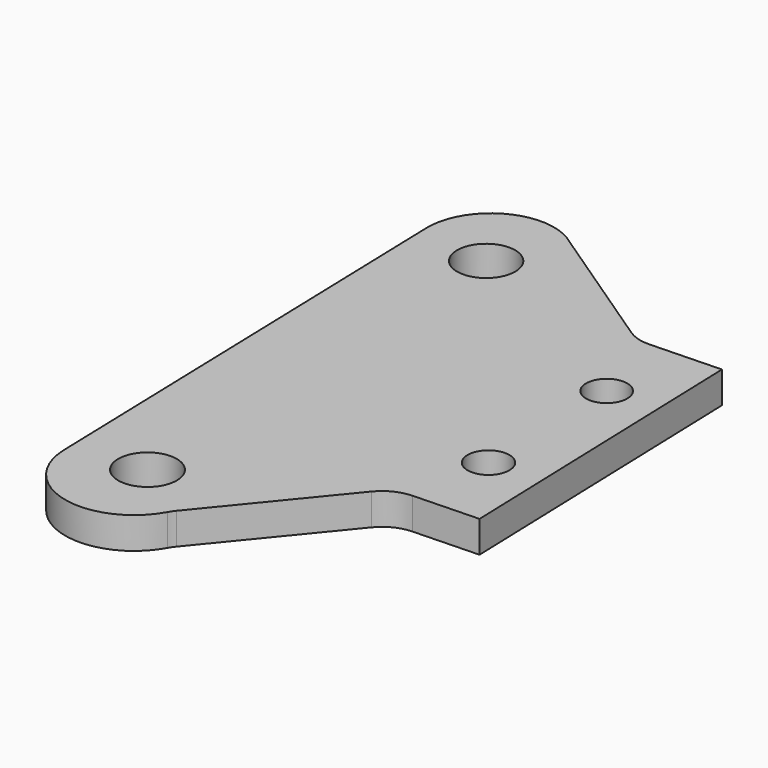
from build123d import *

# Parameters (mm, degrees)
F0_R     = 3.708309
F0_R_2   = 2.642108
F0_R_3   = 3.67947
F0_R_4   = 2.609813
F1_DEPTH = 4


with BuildPart() as f1:
    # F0 (on Top) → F1 (new body)
    with BuildSketch(Plane.XY):
        with BuildLine():
            Line((-21.411486, -22.898418), (-13.109211, -22.633235))
            Line((-13.109211, -22.633235), (-14.386204, 17.346376))
            Line((-14.386204, 17.346376), (-23.344903, 17.060226))
            ThreePointArc((-23.344903, 17.060226), (-24.884447, 17.251866), (-26.291138, 17.906195))
            Line((-26.291138, 17.906195), (-43.272432, 29.304598))
            ThreePointArc((-43.272432, 29.304598), (-51.794147, 30.076603), (-56.15294, 22.713415))
            Line((-56.15294, 22.713415), (-54.436188, -36.819749))
            ThreePointArc((-54.436188, -36.819749), (-47.787351, -45.022515), (-38.124586, -40.76536))
            ThreePointArc((-38.124586, -40.76536), (-37.887462, -40.377688), (-37.616119, -40.013148))
            Line((-37.616119, -40.013148), (-25.122912, -24.731226))
            ThreePointArc((-25.122912, -24.731226), (-23.465768, -23.412721), (-21.411486, -22.898418))
        make_face()
        with Locations((-45.345975, -34.922893)):
            Circle(F0_R, mode=Mode.SUBTRACT)
        with Locations((-19.947813, -12.667741)):
            Circle(F0_R_2, mode=Mode.SUBTRACT)
        with Locations((-47.129278, 20.936157)):
            Circle(F0_R_3, mode=Mode.SUBTRACT)
        with Locations((-20.412468, 6.623971)):
            Circle(F0_R_4, mode=Mode.SUBTRACT)
    extrude(amount=F1_DEPTH)


solid = f1.part
